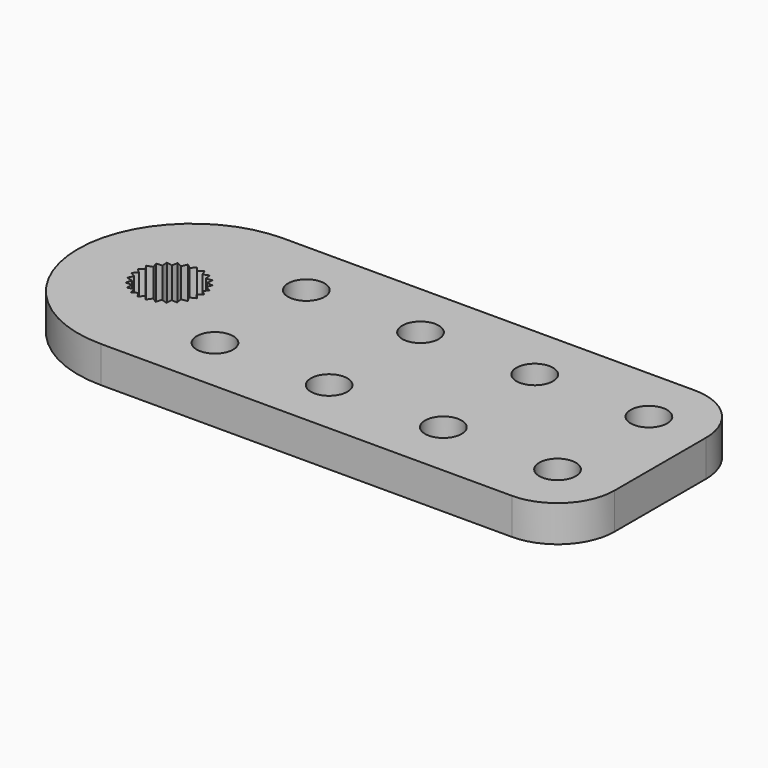
from build123d import *

# Parameters (mm, degrees)
F0_R     = 1.6
F1_DEPTH = 3.175


with BuildPart() as f1:
    # F0 (on Top) → F1 (new body)
    with BuildSketch(Plane.XY):
        with BuildLine():
            ThreePointArc((0, 10), (2.928932, 2.928932), (10, 0))
            Line((10, 0), (46, 0))
            ThreePointArc((46, 0), (49.535534, 1.464466), (51, 5))
            Line((51, 5), (51, 15))
            ThreePointArc((51, 15), (49.535534, 18.535534), (46, 20))
            Line((46, 20), (10, 20))
            ThreePointArc((10, 20), (2.928932, 17.071068), (0, 10))
        make_face()
        with Locations((16, 5)):
            Circle(F0_R, mode=Mode.SUBTRACT)
        with Locations((26, 5)):
            Circle(F0_R, mode=Mode.SUBTRACT)
        with Locations((36, 5)):
            Circle(F0_R, mode=Mode.SUBTRACT)
        with Locations((46, 5)):
            Circle(F0_R, mode=Mode.SUBTRACT)
        Polygon((5.686873, 11.150841), (5.518811, 11.651718), (6.045746, 11.689937), (6.007527, 12.216873), (6.527413, 12.122848), (6.621438, 12.642733), (7.101608, 12.422372), (7.321969, 12.902541), (7.732252, 12.56969), (8.065104, 12.979972), (8.37972, 12.555544), (8.804147, 12.87016), (9.003328, 12.380825), (9.492663, 12.580005), (9.563894, 12.056509), (10.08739, 12.12774), (10.026194, 11.602976), (10.550958, 11.54178), (10.361181, 11.048721), (10.85424, 10.858945), (10.547807, 10.428572), (10.97818, 10.122139), (10.574344, 9.781494), (10.914989, 9.377658), (10.439126, 9.148145), (10.668639, 8.672282), (10.150649, 8.568322), (10.254609, 8.050331), (9.727038, 8.078456), (9.698914, 7.550885), (9.194912, 7.709328), (9.036469, 7.205326), (8.587704, 7.484131), (8.308899, 7.035366), (7.943569, 7.417015), (7.56192, 7.051686), (7.30298, 7.512198), (6.842467, 7.253258), (6.706187, 7.763699), (6.195746, 7.627419), (6.190689, 8.155715), (5.662393, 8.150658), (5.788877, 8.663614), (5.275921, 8.790097), (5.525998, 9.255483), (5.060612, 9.505559), (5.418569, 9.894132), (5.029996, 10.252089), (5.473341, 10.539434), (5.185996, 10.982779), align=None, mode=Mode.SUBTRACT)
        with Locations((16, 15)):
            Circle(F0_R, mode=Mode.SUBTRACT)
        with Locations((26, 15)):
            Circle(F0_R, mode=Mode.SUBTRACT)
        with Locations((36, 15)):
            Circle(F0_R, mode=Mode.SUBTRACT)
        with Locations((46, 15)):
            Circle(F0_R, mode=Mode.SUBTRACT)
    extrude(amount=F1_DEPTH)


solid = f1.part
